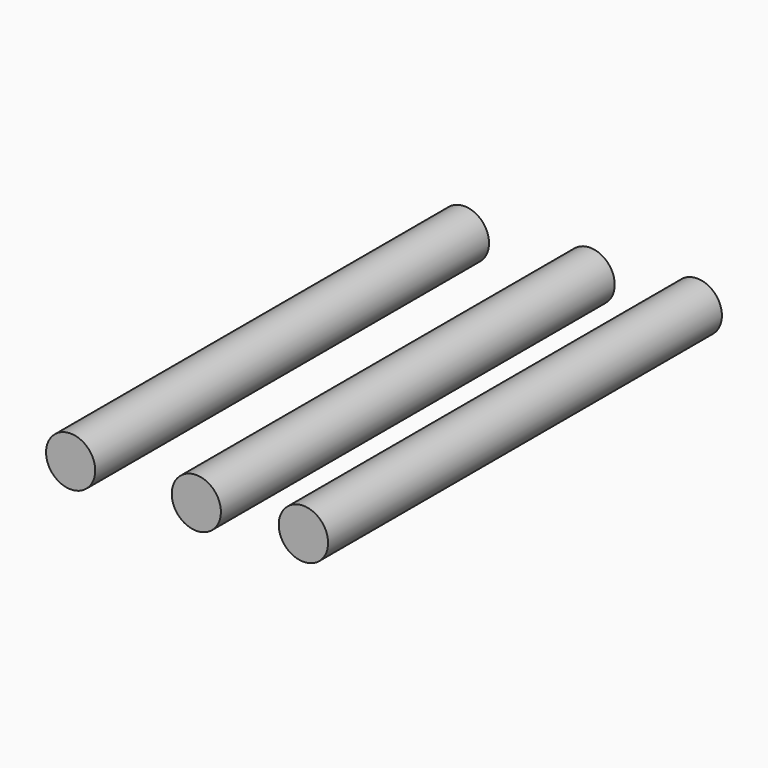
from build123d import *

# Parameters (mm, degrees)
F0_R     = 1.586277
F0_R_2   = 1.585885
F0_R_3   = 1.592137
F1_DEPTH = 31.75


with BuildPart() as f1:
    # F0 (on Front) → F1 (new body)
    with BuildSketch(Plane.XZ):
        with Locations((-33.838466, 11.939541)):
            Circle(F0_R)
        with Locations((-25.732832, 12.221477)):
            Circle(F0_R_2)
        with Locations((-18.825423, 12.714863)):
            Circle(F0_R_3)
    extrude(amount=F1_DEPTH)


solid = f1.part
